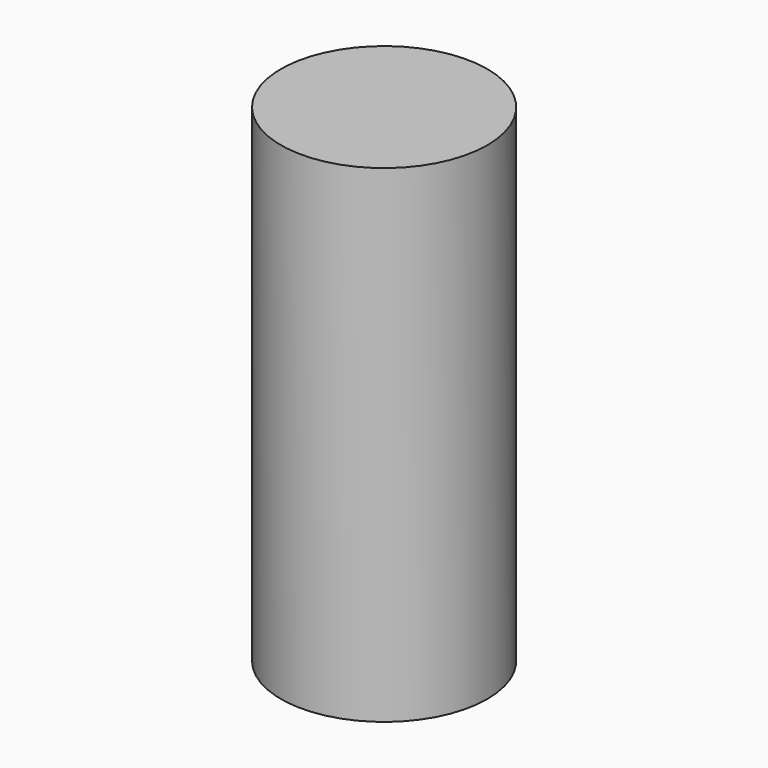
from build123d import *

# Parameters (mm, degrees)
CYLINDER_R     = 3.175
CYLINDER_DEPTH = 15


with BuildPart() as part:
    # Cylinder → Cylinder (new body)
    with BuildSketch(Plane.XY.offset(-2.5)):
        Circle(CYLINDER_R)
    extrude(amount=CYLINDER_DEPTH)


solid = part.part
